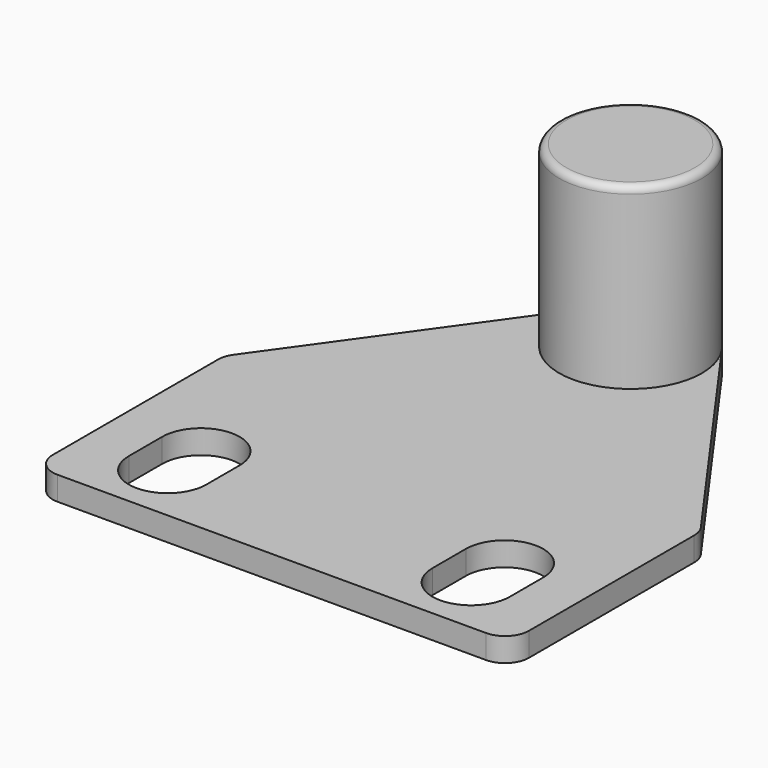
from build123d import *

# Parameters (mm, degrees)
PAD_DEPTH    = 2
SKETCH001_R  = 6
PAD001_DEPTH = 15
SKETCH002_R  = 1.5
PAD002_DEPTH = 1
FILLET_R     = 2
FILLET001_R  = 0.6
CHAMFER_SIZE = 0.5


with BuildPart() as part:
    # Sketch → Pad (new body)
    with BuildSketch(Plane.XY):
        with BuildLine():
            Line((-20, 0), (20, 0))
            Line((20, 0), (20, 20))
            Line((20, 20), (4.882401, 41.164639))
            ThreePointArc((4.882401, 41.164639), (0, 43.67721), (-4.882401, 41.164639))
            Line((-4.882401, 41.164639), (-20, 20))
            Line((-20, 20), (-20, 0))
        make_face()
        with BuildLine():
            ThreePointArc((16, 8.5), (12.75, 11.75), (9.5, 8.5))
            Line((9.5, 8.5), (9.5, 5))
            ThreePointArc((9.5, 5), (12.75, 1.75), (16, 5))
            Line((16, 8.5), (16, 5))
        make_face(mode=Mode.SUBTRACT)
        with BuildLine():
            ThreePointArc((-9.5, 8.5), (-12.75, 11.75), (-16, 8.5))
            Line((-16, 8.5), (-16, 5))
            ThreePointArc((-16, 5), (-12.75, 1.75), (-9.5, 5))
            Line((-9.5, 8.5), (-9.5, 5))
        make_face(mode=Mode.SUBTRACT)
    extrude(amount=PAD_DEPTH)

    # Sketch001 (on Face16 of Pad) → Pad001 (join)
    with BuildSketch(Plane.XY.offset(2)):
        with Locations((0, 37.67721)):
            Circle(SKETCH001_R)
    extrude(amount=PAD001_DEPTH)

    # Sketch002 (on Face4 of Pad001) → Pad002 (join)
    with BuildSketch(Plane(origin=(0, 0, 0), x_dir=(1, 0, 0), z_dir=(0, 0, -1))):
        with Locations((0, -37.67721)):
            Circle(SKETCH002_R)
    extrude(amount=PAD002_DEPTH)

    # Fillet
    fillet_edges = [part.edges().sort_by_distance(p)[0] for p in [
        (20, 0, 1),
        (-20, 0, 1),
        (-20, 20, 1),
        (20, 20, 1),
    ]]
    fillet(fillet_edges, radius=FILLET_R)

    # Fillet001
    fillet001_edges = [part.edges().sort_by_distance(p)[0] for p in [
        (-6, 37.67721, 17),
    ]]
    fillet(fillet001_edges, radius=FILLET001_R)

    # Chamfer
    chamfer_edges = [part.edges().sort_by_distance(p)[0] for p in [
        (-1.5, 37.67721, -1),
    ]]
    chamfer(chamfer_edges, length=CHAMFER_SIZE)


solid = part.part
